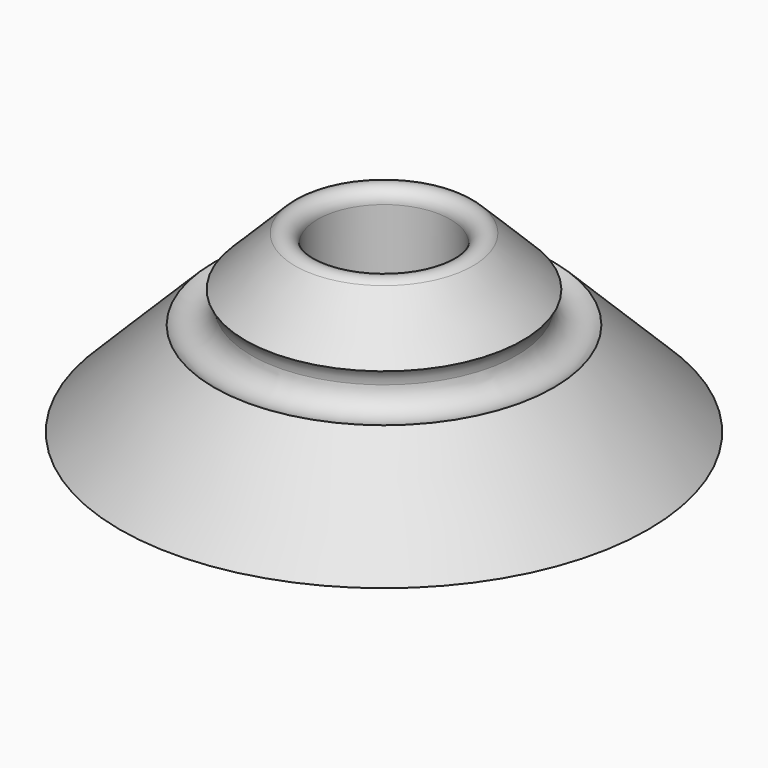
from build123d import *

# Parameters (mm, degrees)
F2_R = 10


with BuildPart() as f1:
    # F0 (on Front) → F1 (revolve)
    with BuildSketch(Plane.XZ):
        with BuildLine():
            Line((-119.485281, 0), (-30, 0))
            Line((-30, 0), (-30, 75))
            ThreePointArc((-30, 75), (-33.703899, 80.543277), (-40.242641, 79.242641))
            Line((-40.242641, 79.242641), (-119.485281, 0))
        make_face()
    revolve(axis=Axis((0, 0, 51.326731), (0, 0, 1)))

    # F2 (on Front) → F3 (revolve, cut)
    with BuildSketch(Plane.XZ):
        with Locations((-70, 50)):
            Circle(F2_R)
    revolve(axis=Axis((0, 0, 60.464166), (0, 0, 1)), mode=Mode.SUBTRACT)


solid = f1.part
